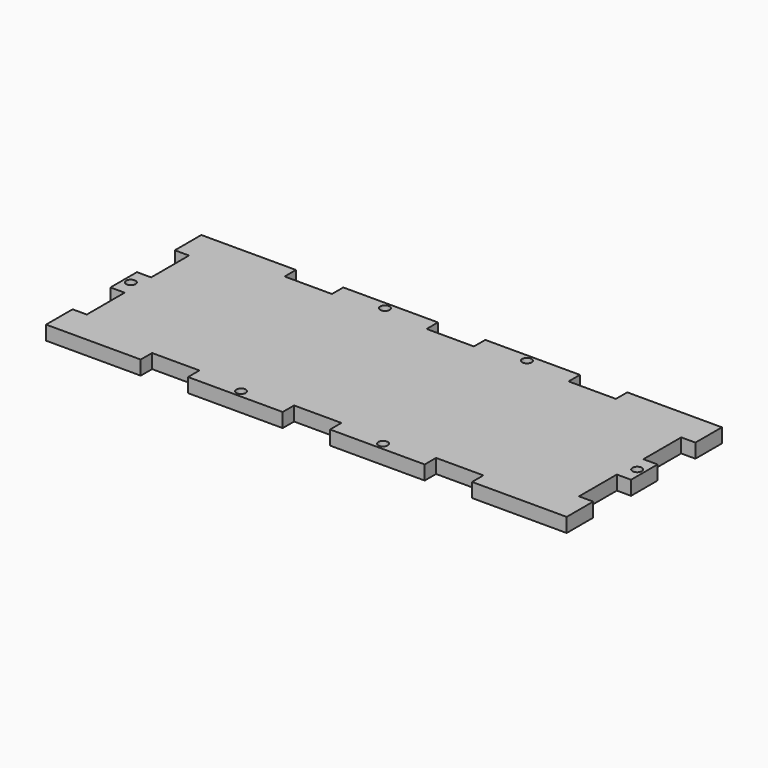
from build123d import *

# Parameters (mm, degrees)
F0_R     = 1
F1_DEPTH = 1.5


with BuildPart() as f1:
    # F0 (on Top) → F1 (new body, symmetric)
    with BuildSketch(Plane.XY):
        Polygon((0, 7), (0, 0), (20, 0), (20, 3), (30, 3), (30, 0), (50, 0), (50, 3), (60, 3), (60, 0), (80, 0), (80, 3), (90, 3), (90, 0), (110, 0), (110, 7), (107, 7), (107, 17), (110, 17), (110, 24), (107, 24), (107, 34), (110, 34), (110, 41), (90, 41), (90, 38), (80, 38), (80, 41), (60, 41), (60, 38), (50, 38), (50, 41), (30, 41), (30, 38), (20, 38), (20, 41), (0, 41), (0, 34), (3, 34), (3, 24), (0, 24), (0, 17), (3, 17), (3, 7), align=None)
        with Locations((40, 1.5)):
            Circle(F0_R, mode=Mode.SUBTRACT)
        with Locations((70, 1.5)):
            Circle(F0_R, mode=Mode.SUBTRACT)
        with Locations((1.5, 20.5)):
            Circle(F0_R, mode=Mode.SUBTRACT)
        with Locations((40, 39.5)):
            Circle(F0_R, mode=Mode.SUBTRACT)
        with Locations((108.5, 20.5)):
            Circle(F0_R, mode=Mode.SUBTRACT)
        with Locations((70, 39.5)):
            Circle(F0_R, mode=Mode.SUBTRACT)
    extrude(amount=F1_DEPTH, both=True)


solid = f1.part
